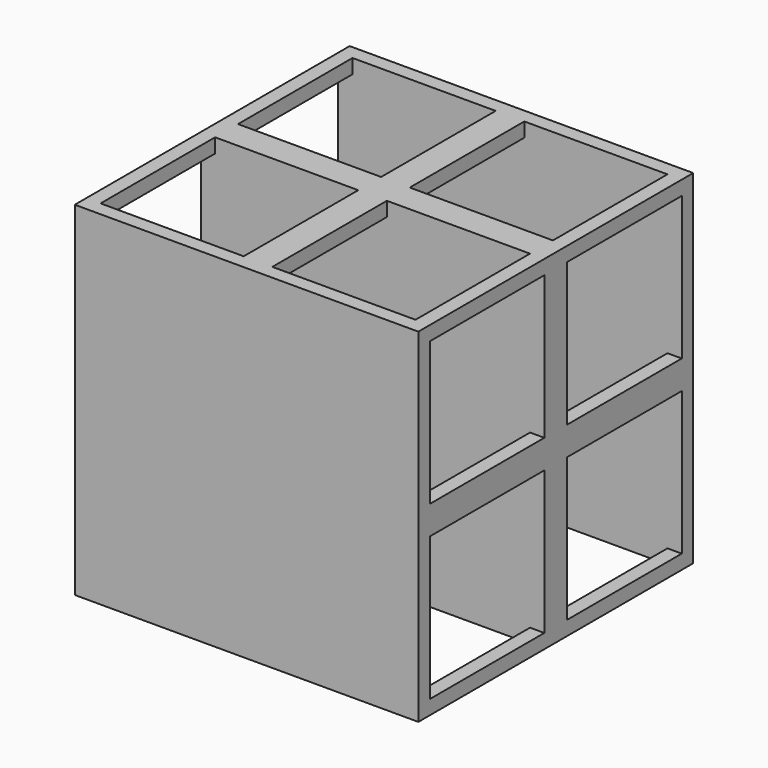
from build123d import *

# Parameters (mm, degrees)
F0_W     = 76.2
F0_H     = 76.2
F1_DEPTH = 76.2
F2_W     = 31.75
F2_H     = 31.75
F3_DEPTH = 102.87
F4_DEPTH = 134.874
F5_DEPTH = 137.922
F6_DEPTH = 121.412
F7_W     = 31.75
F7_H     = 31.75
F8_DEPTH = 107.696


with BuildPart() as f1:
    # F0 (on Top) → F1 (new body)
    with BuildSketch(Plane.XY):
        Rectangle(F0_W, F0_H)
    extrude(amount=F1_DEPTH)

    # F2 (on face) → F3 (cut)
    with BuildSketch(Plane.XY.offset(76.2)):
        with Locations((-19.05, 19.05)):
            Rectangle(F2_W, F2_H)
    extrude(amount=-F3_DEPTH, mode=Mode.SUBTRACT)

    # F2 (on face) → F4 (cut)
    with BuildSketch(Plane.XY.offset(76.2)):
        with Locations((19.05, 19.05)):
            Rectangle(F2_W, F2_H)
    extrude(amount=-F4_DEPTH, mode=Mode.SUBTRACT)

    # F2 (on face) → F5 (cut)
    with BuildSketch(Plane.XY.offset(76.2)):
        with Locations((-19.05, -19.05)):
            Rectangle(F2_W, F2_H)
    extrude(amount=-F5_DEPTH, mode=Mode.SUBTRACT)

    # F2 (on face) → F6 (cut)
    with BuildSketch(Plane.XY.offset(76.2)):
        with Locations((19.05, -19.05)):
            Rectangle(F2_W, F2_H)
    extrude(amount=-F6_DEPTH, mode=Mode.SUBTRACT)

    # F7 (on face) → F8 (cut)
    with BuildSketch(Plane.YZ.offset(38.1)):
        with Locations((-19.05, 57.15)):
            Rectangle(F7_W, F7_H)
        with Locations((19.05, 57.15)):
            Rectangle(F7_W, F7_H)
        with Locations((-19.05, 19.05)):
            Rectangle(F7_W, F7_H)
        with Locations((19.05, 19.05)):
            Rectangle(F7_W, F7_H)
    extrude(amount=-F8_DEPTH, mode=Mode.SUBTRACT)


solid = f1.part
